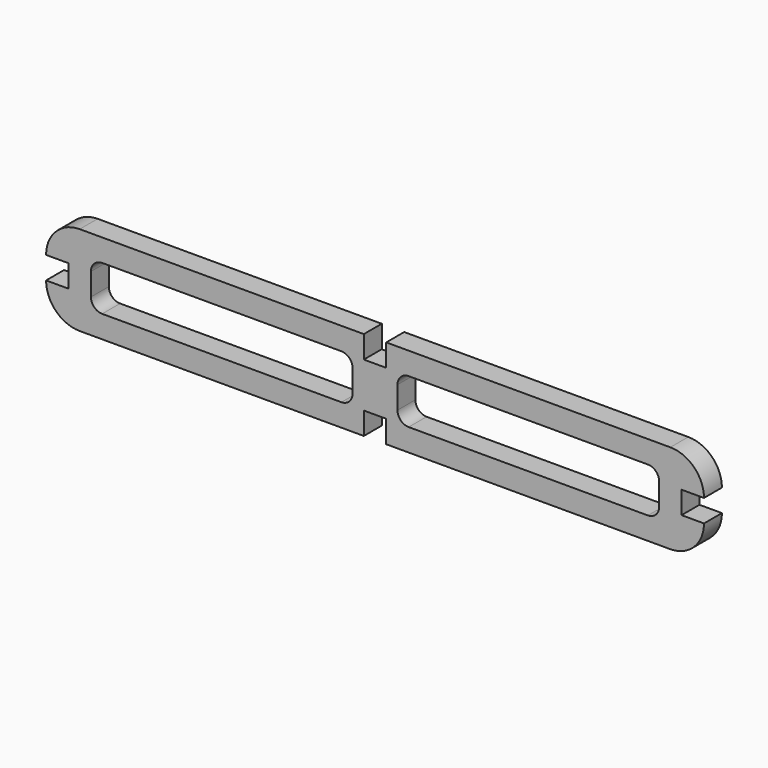
from build123d import *

# Parameters (mm, degrees)
F1_DEPTH = 25.4
F2_W     = 25.4
F2_H     = 25.4
F3_DEPTH = 25.4


with BuildPart() as f1:
    # F0 (on Front) → F1 (new body)
    with BuildSketch(Plane.XZ):
        with BuildLine():
            Line((-372.618, 12.7), (-347.218, 12.7))
            Line((-347.218, 12.7), (-347.218, -12.7))
            Line((-347.218, -12.7), (-372.618, -12.7))
            ThreePointArc((-372.618, -12.7), (-361.458768, -39.640768), (-334.518, -50.8))
            Line((-334.518, -50.8), (0, -50.8))
            Line((0, -50.8), (334.518, -50.8))
            ThreePointArc((334.518, -50.8), (361.458768, -39.640768), (372.618, -12.7))
            Line((372.618, -12.7), (347.218, -12.7))
            Line((347.218, -12.7), (347.218, 12.7))
            Line((347.218, 12.7), (372.618, 12.7))
            ThreePointArc((372.618, 12.7), (361.458768, 39.640768), (334.518, 50.8))
            Line((334.518, 50.8), (0, 50.8))
            Line((0, 50.8), (-334.518, 50.8))
            ThreePointArc((-334.518, 50.8), (-361.458768, 39.640768), (-372.618, 12.7))
        make_face()
        with BuildLine():
            Line((-38.1, -25.4), (-309.118, -25.4))
            ThreePointArc((-309.118, -25.4), (-318.098256, -21.680256), (-321.818, -12.7))
            Line((-321.818, -12.7), (-321.818, 12.7))
            ThreePointArc((-321.818, 12.7), (-318.098256, 21.680256), (-309.118, 25.4))
            Line((-309.118, 25.4), (-38.1, 25.4))
            ThreePointArc((-38.1, 25.4), (-29.119744, 21.680256), (-25.4, 12.7))
            Line((-25.4, 12.7), (-25.4, -12.7))
            ThreePointArc((-25.4, -12.7), (-29.119744, -21.680256), (-38.1, -25.4))
        make_face(mode=Mode.SUBTRACT)
        with BuildLine():
            Line((321.818, 12.7), (321.818, -12.7))
            ThreePointArc((321.818, -12.7), (318.098256, -21.680256), (309.118, -25.4))
            Line((309.118, -25.4), (38.1, -25.4))
            ThreePointArc((38.1, -25.4), (29.119744, -21.680256), (25.4, -12.7))
            Line((25.4, -12.7), (25.4, 12.7))
            ThreePointArc((25.4, 12.7), (29.119744, 21.680256), (38.1, 25.4))
            Line((38.1, 25.4), (309.118, 25.4))
            ThreePointArc((309.118, 25.4), (318.098256, 21.680256), (321.818, 12.7))
        make_face(mode=Mode.SUBTRACT)
    extrude(amount=F1_DEPTH)

    # F2 (on face) → F3 (cut)
    with BuildSketch(Plane.XZ.offset(25.4)):
        with Locations((0, 38.1)):
            Rectangle(F2_W, F2_H)
        with Locations((0, -38.1)):
            Rectangle(F2_W, F2_H)
    extrude(amount=-F3_DEPTH, mode=Mode.SUBTRACT)


solid = f1.part
